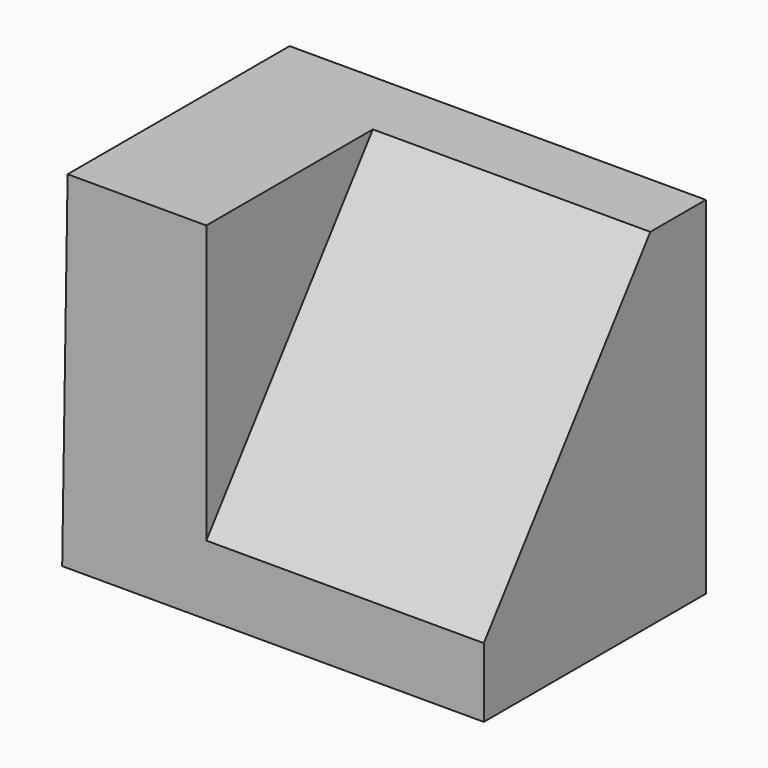
from build123d import *

# Parameters (mm, degrees)
F1_DEPTH = 25.4
F3_DEPTH = 25.4


with BuildPart() as f1:
    # F0 (on Front) → F1 (new body)
    with BuildSketch(Plane.XZ):
        Polygon((-10.342316, 38.977032), (-48.442316, 38.977032), (-48.938348, 7.230907), (-10.342316, 7.230907), align=None)
    extrude(amount=F1_DEPTH)

    # F2 (on face) → F3 (cut)
    with BuildSketch(Plane.YZ.offset(-10.342316)):
        Polygon((-25.4, 38.977032), (-25.4, 13.580907), (-6.35, 38.977032), align=None)
    extrude(amount=-F3_DEPTH, mode=Mode.SUBTRACT)


solid = f1.part
